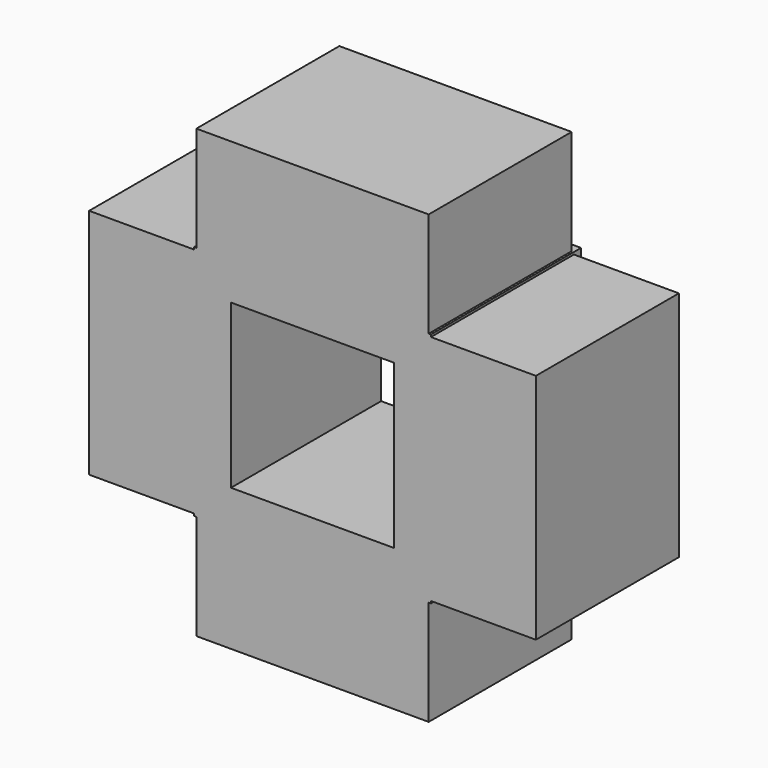
from build123d import *

# Parameters (mm, degrees)
F0_W      = 2.65
F0_H      = 2.65
F1_DEPTH  = 2.1
F2_W      = 2.6
F2_H      = 2
F3_DEPTH  = 1.175
F4_W      = 2
F4_H      = 2.6
F5_DEPTH  = 1.175
F6_W      = 2.6
F6_H      = 2
F7_DEPTH  = 1.175
F8_W      = 2
F8_H      = 2.6
F9_DEPTH  = 1.175
F10_W     = 1.825
F10_H     = 1.825
F11_DEPTH = 2.1


with BuildPart() as f1:
    # F0 (on Front) → F1 (new body)
    with BuildSketch(Plane.XZ):
        Rectangle(F0_W, F0_H)
    extrude(amount=F1_DEPTH)

    # F2 (on face) → F3 (join)
    with BuildSketch(Plane(origin=(0, 0, -1.325), x_dir=(1, 0, 0), z_dir=(0, 0, -1))):
        with Locations((0, 1.1)):
            Rectangle(F2_W, F2_H)
    extrude(amount=F3_DEPTH)

    # F4 (on face) → F5 (join)
    with BuildSketch(Plane(origin=(-1.325, 0, 0), x_dir=(0, -1, 0), z_dir=(-1, 0, 0))):
        with Locations((1.1, 0)):
            Rectangle(F4_W, F4_H)
    extrude(amount=F5_DEPTH)

    # F6 (on face) → F7 (join)
    with BuildSketch(Plane.XY.offset(1.325)):
        with Locations((0, -1.1)):
            Rectangle(F6_W, F6_H)
    extrude(amount=F7_DEPTH)

    # F8 (on face) → F9 (join)
    with BuildSketch(Plane.YZ.offset(1.325)):
        with Locations((-1.1, 0)):
            Rectangle(F8_W, F8_H)
    extrude(amount=F9_DEPTH)

    # F10 (on face) → F11 (cut)
    with BuildSketch(Plane.XZ.offset(2.1)):
        Rectangle(F10_W, F10_H)
    extrude(amount=-F11_DEPTH, mode=Mode.SUBTRACT)


solid = f1.part
